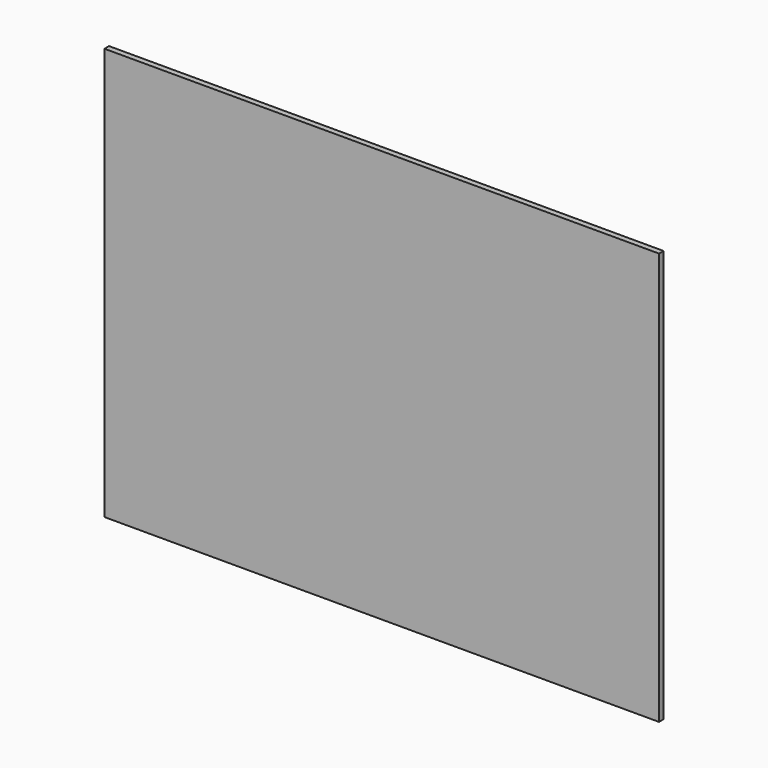
from build123d import *

# Parameters (mm, degrees)
SKETCH_W  = 615.9
SKETCH_H  = 457.95
PAD_DEPTH = 6.35


with BuildPart() as part:
    # Sketch → Pad (new body)
    with BuildSketch(Plane.XZ):
        with Locations((307.95, 228.975)):
            Rectangle(SKETCH_W, SKETCH_H)
    extrude(amount=PAD_DEPTH)


solid = part.part
